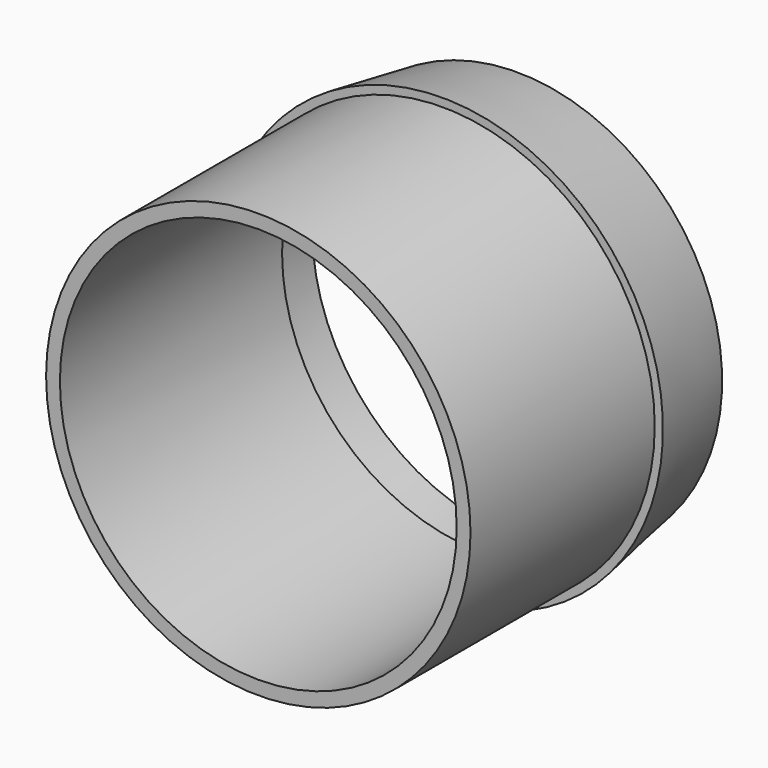
from build123d import *


with BuildPart() as part:
    # Sketch → Revolution (revolve)
    with BuildSketch(Plane.XY):
        Polygon((-60.3, 31.523501), (-62.3, 31.523501), (-62.3, 45.479615), (-67, 17.119615), (-64.5, 17.119615), (-64.5, -52.880385), (-60.3, -52.880385), align=None)
    revolve(axis=Axis((0, 0, 0), (0, 1, 0)))


solid = part.part
